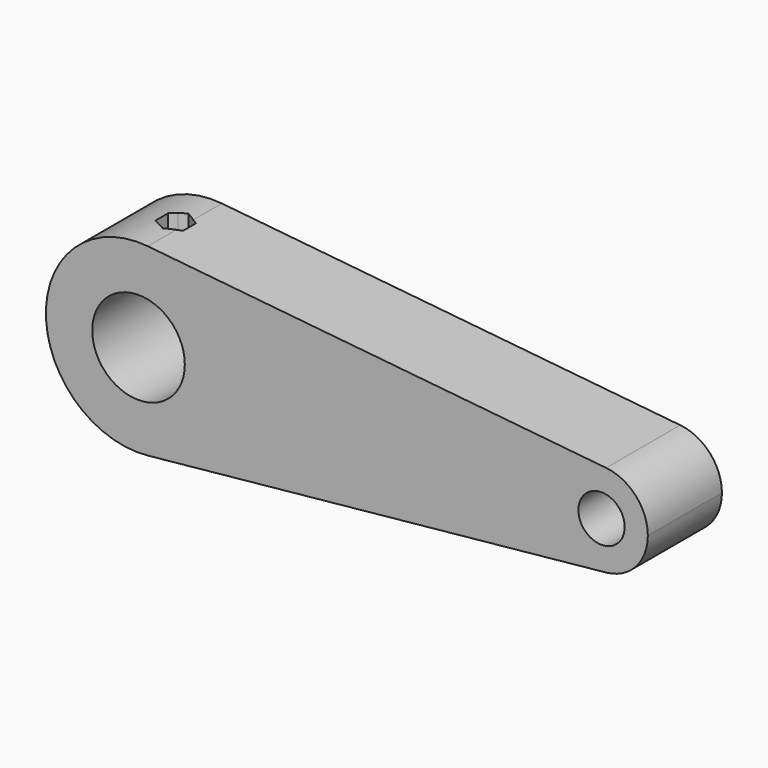
from build123d import *

# Parameters (mm, degrees)
F0_R     = 12.7
F0_R_2   = 6.35
F1_DEPTH = 25.4
F3_DEPTH = 36.576


with BuildPart() as f1:
    # F0 (on Front) → F1 (new body)
    with BuildSketch(Plane.XZ):
        with BuildLine():
            ThreePointArc((2.54, -25.2726809025), (18.8371441572, -17.0388379885), (25.4, 0))
            ThreePointArc((25.4, 0), (18.8371441572, 17.0388379885), (2.54, 25.2726809025))
            ThreePointArc((2.54, 25.2726809025), (-25.4, 0), (2.54, -25.2726809025))
        make_face()
        Circle(F0_R, mode=Mode.SUBTRACT)
        with BuildLine():
            ThreePointArc((2.54, 25.2726809025), (18.8371441572, 17.0388379885), (25.4, 0))
            ThreePointArc((25.4, 0), (18.8371441572, -17.0388379885), (2.54, -25.2726809025))
            Line((2.54, -25.2726809025), (128.27, -12.6363404513))
            ThreePointArc((128.27, -12.6363404513), (114.3, 0), (128.27, 12.6363404513))
            Line((128.27, 12.6363404513), (2.54, 25.2726809025))
        make_face()
        with BuildLine():
            ThreePointArc((139.7, 0), (136.4185720786, 8.5194189943), (128.27, 12.6363404513))
            ThreePointArc((128.27, 12.6363404513), (114.3, 0), (128.27, -12.6363404513))
            ThreePointArc((128.27, -12.6363404513), (136.4185720786, -8.5194189943), (139.7, 0))
        make_face()
        with Locations((127, 0)):
            Circle(F0_R_2, mode=Mode.SUBTRACT)
    extrude(amount=F1_DEPTH)

    # F2 (on Top) → F3 (cut)
    with BuildSketch(Plane.XY):
        with BuildLine():
            Line((1.9050001585, -9.4004433031), (0, -8.3005909488))
            Line((0, -8.3005909488), (0, -8.89))
            ThreePointArc((0, -8.89), (0.9861006502, -9.0198226255), (1.9050001585, -9.4004433031))
        make_face()
        with BuildLine():
            Line((0, -8.89), (0, -8.3005909488))
            Line((0, -8.3005909488), (-1.9050001585, -9.4004433031))
            ThreePointArc((-1.9050001585, -9.4004433031), (-0.9861006502, -9.0198226255), (0, -8.89))
        make_face()
        with BuildLine():
            ThreePointArc((1.9050001585, -9.4004433031), (0.9861006502, -9.0198226255), (0, -8.89))
            Line((0, -8.89), (0, -16.51))
            ThreePointArc((0, -16.51), (0.9861005829, -16.3801773925), (1.9050000377, -15.9995567667))
            ThreePointArc((1.9050000377, -15.9995567667), (3.2995567993, -14.6049999812), (3.81, -12.7))
            ThreePointArc((3.81, -12.7), (3.2995568342, -10.7950000792), (1.9050001585, -9.4004433031))
        make_face()
        with BuildLine():
            Line((0, -16.51), (0, -8.89))
            ThreePointArc((0, -8.89), (-0.9861006502, -9.0198226255), (-1.9050001585, -9.4004433031))
            ThreePointArc((-1.9050001585, -9.4004433031), (-3.2995568342, -10.7950000792), (-3.81, -12.7))
            ThreePointArc((-3.81, -12.7), (-3.2995567987, -14.6049999821), (-1.9050000357, -15.9995567678))
            ThreePointArc((-1.9050000357, -15.9995567678), (-0.9861005818, -16.3801773928), (0, -16.51))
        make_face()
        with BuildLine():
            ThreePointArc((-3.81, -12.7), (-3.2995568342, -10.7950000792), (-1.9050001585, -9.4004433031))
            Line((-1.9050001585, -9.4004433031), (-3.81, -10.5002954744))
            Line((-3.81, -10.5002954744), (-3.81, -12.7))
        make_face()
        with BuildLine():
            Line((3.81, -10.5002954744), (1.9050001585, -9.4004433031))
            ThreePointArc((1.9050001585, -9.4004433031), (3.2995568342, -10.7950000792), (3.81, -12.7))
            Line((3.81, -12.7), (3.81, -10.5002954744))
        make_face()
        with BuildLine():
            ThreePointArc((1.9050000377, -15.9995567667), (0.9861005829, -16.3801773925), (0, -16.51))
            Line((0, -16.51), (0, -17.0994090512))
            Line((0, -17.0994090512), (1.9050000377, -15.9995567667))
        make_face()
        with BuildLine():
            Line((0, -17.0994090512), (0, -16.51))
            ThreePointArc((0, -16.51), (-0.9861005818, -16.3801773928), (-1.9050000357, -15.9995567678))
            Line((-1.9050000357, -15.9995567678), (0, -17.0994090512))
        make_face()
        with BuildLine():
            ThreePointArc((-1.9050000357, -15.9995567678), (-3.2995567987, -14.6049999821), (-3.81, -12.7))
            Line((-3.81, -12.7), (-3.81, -14.8997045256))
            Line((-3.81, -14.8997045256), (-1.9050000357, -15.9995567678))
        make_face()
        with BuildLine():
            Line((3.81, -14.8997045256), (3.81, -12.7))
            ThreePointArc((3.81, -12.7), (3.2995567993, -14.6049999812), (1.9050000377, -15.9995567667))
            Line((1.9050000377, -15.9995567667), (3.81, -14.8997045256))
        make_face()
    extrude(amount=F3_DEPTH, mode=Mode.SUBTRACT)


solid = f1.part
